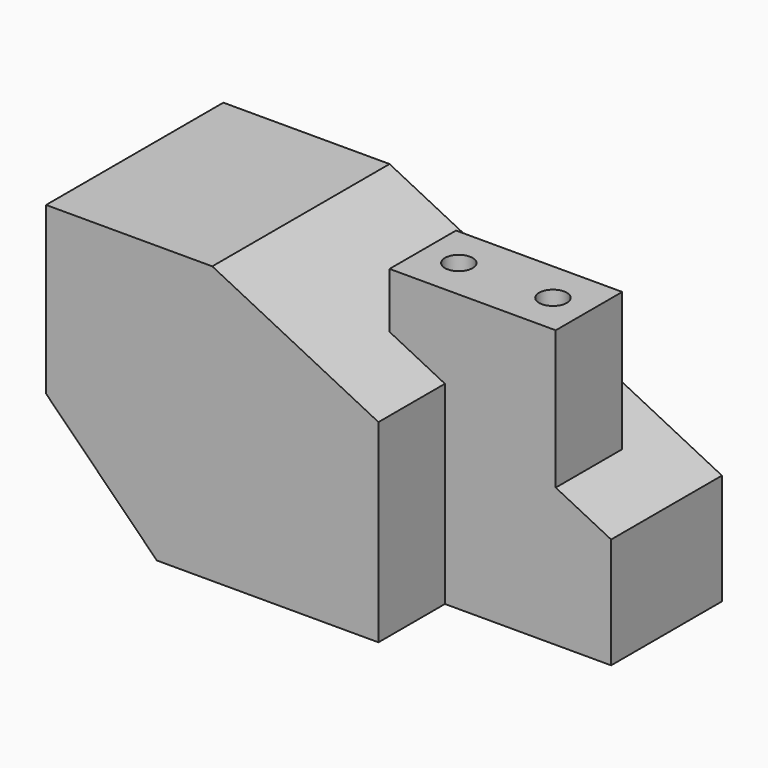
from build123d import *

# Parameters (mm, degrees)
F0_W      = 114.3
F0_H      = 63.5
F1_DEPTH  = 50.8
F2_W      = 38.1
F2_H      = 63.5
F3_DEPTH  = 19.05
F5_DEPTH  = 19.05
F7_DEPTH  = 12.7
F9_DEPTH  = 25.4
F11_DEPTH = 25.4
F13_DEPTH = 127
F14_R     = 3.175
F15_DEPTH = 228.6


with BuildPart() as f1:
    # F0 (on Front) → F1 (new body)
    with BuildSketch(Plane.XZ):
        with Locations((57.15, 31.75)):
            Rectangle(F0_W, F0_H)
    extrude(amount=F1_DEPTH)

    # F2 (on face) → F3 (cut)
    with BuildSketch(Plane.XZ.offset(50.8)):
        with Locations((95.25, 31.75)):
            Rectangle(F2_W, F2_H)
    extrude(amount=-F3_DEPTH, mode=Mode.SUBTRACT)

    # F4 (on face) → F5 (cut)
    with BuildSketch(Plane.XZ.offset(50.8)):
        Polygon((76.2, 44.45), (76.2, 63.5), (38.1, 63.5), align=None)
    extrude(amount=-F5_DEPTH, mode=Mode.SUBTRACT)

    # F6 (on face) → F7 (cut)
    with BuildSketch(Plane(origin=(0, 0, 0), x_dir=(-1, 0, 0), z_dir=(0, 1, 0))):
        Polygon((-114.3, 63.5), (-114.3, 25.4), (-38.1, 63.5), align=None)
    extrude(amount=-F7_DEPTH, mode=Mode.SUBTRACT)

    # F8 (on face) → F9 (cut)
    with BuildSketch(Plane(origin=(0, -12.7, 0), x_dir=(-1, 0, 0), z_dir=(0, 1, 0))):
        Polygon((-101.6, 63.5), (-114.3, 63.5), (-114.3, 25.4), (-101.6, 31.75), align=None)
    extrude(amount=-F9_DEPTH, mode=Mode.SUBTRACT)

    # F10 (on face) → F11 (cut)
    with BuildSketch(Plane(origin=(0, -12.7, 0), x_dir=(-1, 0, 0), z_dir=(0, 1, 0))):
        Polygon((-63.5, 50.8), (-38.1, 63.5), (-63.5, 63.5), align=None)
    extrude(amount=-F11_DEPTH, mode=Mode.SUBTRACT)

    # F12 (on face) → F13 (cut)
    with BuildSketch(Plane.XZ.offset(50.8)):
        Polygon((0, 25.4), (0, 0), (25.4, 0), align=None)
    extrude(amount=-F13_DEPTH, mode=Mode.SUBTRACT)

    # F14 (on face) → F15 (cut)
    with BuildSketch(Plane.XY.offset(63.5)):
        with BuildLine():
            ThreePointArc((68.58, -22.225), (71.755, -25.4), (74.93, -22.225))
            ThreePointArc((74.93, -22.225), (71.755, -19.05), (68.58, -22.225))
        make_face()
        with Locations((93.345, -22.225)):
            Circle(F14_R)
    extrude(amount=-F15_DEPTH, mode=Mode.SUBTRACT)


solid = f1.part
